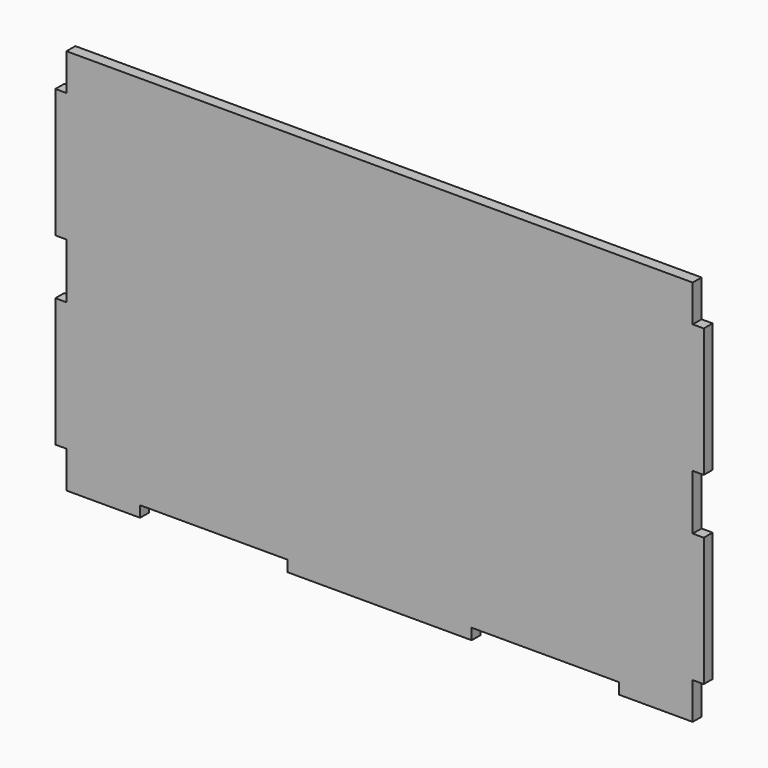
from build123d import *

# Parameters (mm, degrees)
F0_W     = 3
F0_H     = 35
F1_DEPTH = 3


with BuildPart() as f1:
    # F0 (on Front) → F1 (new body)
    with BuildSketch(Plane.XZ):
        Polygon((85, 42.5), (85, 52.5), (-85, 52.5), (-85, 42.5), (-85, 7.5), (-85, -7.5), (-85, -42.5), (-85, -52.5), (-65, -52.5), (-65, -49.5), (-25, -49.5), (-25, -52.5), (25, -52.5), (25, -49.5), (65, -49.5), (65, -52.5), (85, -52.5), (85, -42.5), (85, -7.5), (85, 7.5), align=None)
        with Locations((-86.5, -25)):
            Rectangle(F0_W, F0_H)
        with Locations((86.5, -25)):
            Rectangle(F0_W, F0_H)
        with Locations((86.5, 25)):
            Rectangle(F0_W, F0_H)
        with Locations((-86.5, 25)):
            Rectangle(F0_W, F0_H)
    extrude(amount=F1_DEPTH)


solid = f1.part
